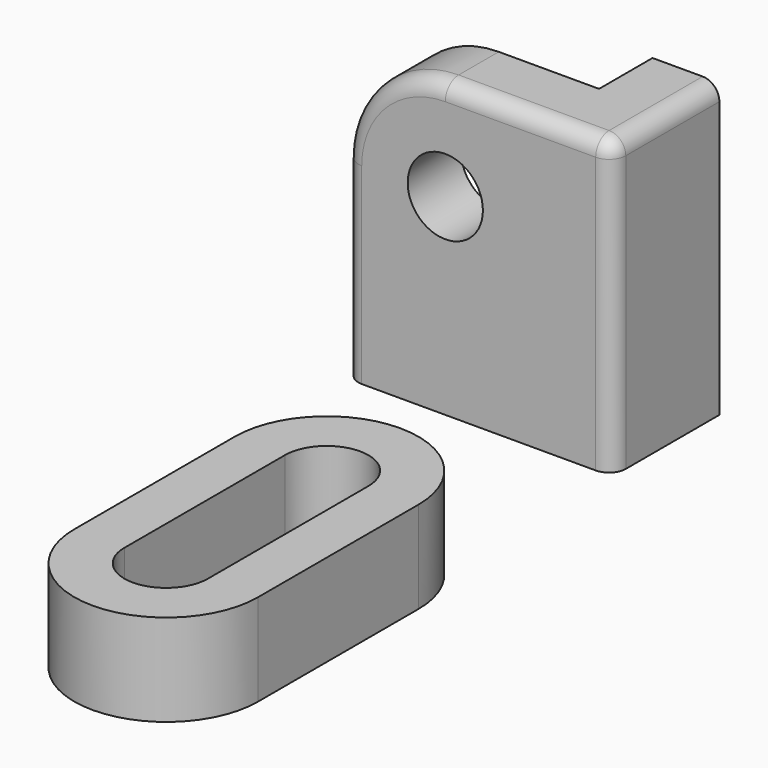
from build123d import *

# Parameters (mm, degrees)
F1_DEPTH = 12.7
F2_W     = 12.7
F2_H     = 55.5625
F3_DEPTH = 12.7
F5_R     = 7.14375
F6_DEPTH = 12.7
F7_R     = 3.175
F8_R     = 3.175
F9_DEPTH = 17.4625


with BuildPart() as f1:
    # F0 (on Front) → F1 (new body)
    with BuildSketch(Plane.XZ):
        with BuildLine():
            Line((0, 58.981731), (-31.75, 58.981731))
            ThreePointArc((-31.75, 58.981731), (-45.220384, 53.402115), (-50.8, 39.931731))
            Line((-50.8, 39.931731), (-50.8, 3.419231))
            Line((-50.8, 3.419231), (0, 3.419231))
            Line((0, 3.419231), (0, 58.981731))
        make_face()
    extrude(amount=F1_DEPTH)

    # F2 (on face) → F3 (join)
    with BuildSketch(Plane(origin=(0, 0, 0), x_dir=(-1, 0, 0), z_dir=(0, 1, 0))):
        with Locations((6.35, 31.200481)):
            Rectangle(F2_W, F2_H)
    extrude(amount=F3_DEPTH)

    # F5 (on face) → F6 (cut)
    with BuildSketch(Plane.XZ.offset(12.7)):
        with Locations((-31.75, 39.931731)):
            Circle(F5_R)
    extrude(amount=-F6_DEPTH, mode=Mode.SUBTRACT)

    # F7
    f7_edges = [f1.edges().sort_by_distance(p)[0] for p in [
        (-45.220384, -12.7, 53.402115),
    ]]
    fillet(f7_edges, radius=F7_R)

    # F8
    f8_edges = [f1.edges().sort_by_distance(p)[0] for p in [
        (0, -12.7, 29.612981),
    ]]
    fillet(f8_edges, radius=F8_R)


with BuildPart() as f9:
    # F4 (on Top) → F9 (new body)
    with BuildSketch(Plane.XY):
        with BuildLine():
            Line((0, -96.8375), (0, -58.7375))
            ThreePointArc((0, -58.7375), (-17.4625, -41.275), (-34.925, -58.7375))
            Line((-34.925, -58.7375), (-34.925, -96.8375))
            ThreePointArc((-34.925, -96.8375), (-17.4625, -114.3), (0, -96.8375))
        make_face()
        with BuildLine():
            Line((-9.525, -58.7375), (-9.525, -96.8375))
            ThreePointArc((-9.525, -96.8375), (-17.4625, -104.775), (-25.4, -96.8375))
            Line((-25.4, -96.8375), (-25.4, -58.7375))
            ThreePointArc((-25.4, -58.7375), (-17.4625, -50.8), (-9.525, -58.7375))
        make_face(mode=Mode.SUBTRACT)
    extrude(amount=F9_DEPTH)


solid = Compound([f1.part, f9.part])
